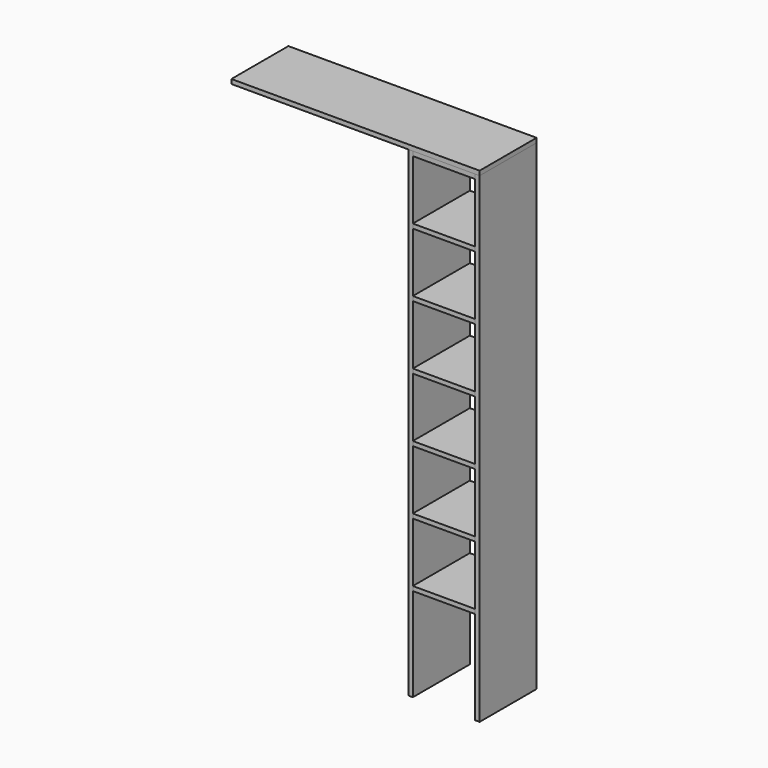
from build123d import *

# Parameters (mm, degrees)
F0_W     = 19.05
F0_H     = 2057.4
F1_DEPTH = 304.8
F2_W     = 266.7
F2_H     = 19.05
F3_DEPTH = 304.8
F4_W     = 1062.035602
F4_H     = 19.05
F5_DEPTH = 304.8


with BuildPart() as f1:
    # F0 (on Front) → F1 (new body)
    with BuildSketch(Plane.XZ):
        with Locations((-423.397244, -11.271086)):
            Rectangle(F0_W, F0_H)
        with Locations((-137.647244, -11.271086)):
            Rectangle(F0_W, F0_H)
    extrude(amount=F1_DEPTH)


with BuildPart() as f3:
    # F2 (on face) → F3 (new body)
    with BuildSketch(Plane.XZ.offset(304.8)):
        with Locations((-280.522244, -630.396086)):
            Rectangle(F2_W, F2_H)
        with Locations((-280.522244, -357.346086)):
            Rectangle(F2_W, F2_H)
        with Locations((-280.522244, -84.296086)):
            Rectangle(F2_W, F2_H)
        with Locations((-280.522244, 188.753914)):
            Rectangle(F2_W, F2_H)
        with Locations((-280.522244, 461.803914)):
            Rectangle(F2_W, F2_H)
        with Locations((-280.522244, 734.853914)):
            Rectangle(F2_W, F2_H)
        Polygon((-148.719952, 1017.428914), (-413.872244, 1017.428914), (-413.872244, 998.378914), (-147.172244, 998.378914), align=None)
    extrude(amount=-F3_DEPTH)


with BuildPart() as f5:
    # F4 (on Front) → F5 (new body)
    with BuildSketch(Plane.XZ):
        with Locations((-659.140045, 1026.953914)):
            Rectangle(F4_W, F4_H)
    extrude(amount=F5_DEPTH)


solid = Compound([f1.part, f3.part, f5.part])
